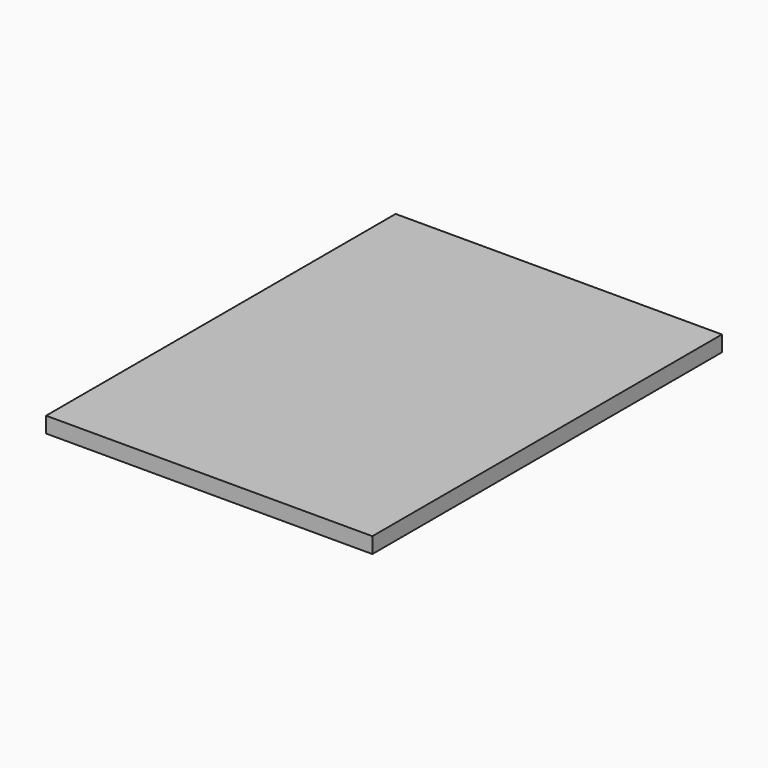
from build123d import *

# Parameters (mm, degrees)
F0_R          = 11.93546
F1_DEPTH      = 14.478
F3_W          = 95.2036306262
F3_H          = 59.2658370733
F4_DEPTH      = 25.4
F4_DEPTH_BACK = 25.4
F6_W          = 52.6070035994
F6_H          = 70.439890027
F7_DEPTH      = 2.54


with BuildPart() as f1:
    # F0 (on Front) → F1 (new body)
    with BuildSketch(Plane.XZ):
        Circle(F0_R)
    extrude(amount=F1_DEPTH)


with BuildPart() as f4:
    # F3 (on Front) → F4 (new body, two sides)
    with BuildSketch(Plane.XZ) as f4_sk:
        Rectangle(F3_W, F3_H)
    extrude(amount=F4_DEPTH)
    extrude(f4_sk.sketch, amount=-F4_DEPTH_BACK)


with BuildPart() as f7:
    # F6 (on Top) → F7 (new body)
    with BuildSketch(Plane.XY):
        Rectangle(F6_W, F6_H)
    extrude(amount=F7_DEPTH)


solid = f7.part
